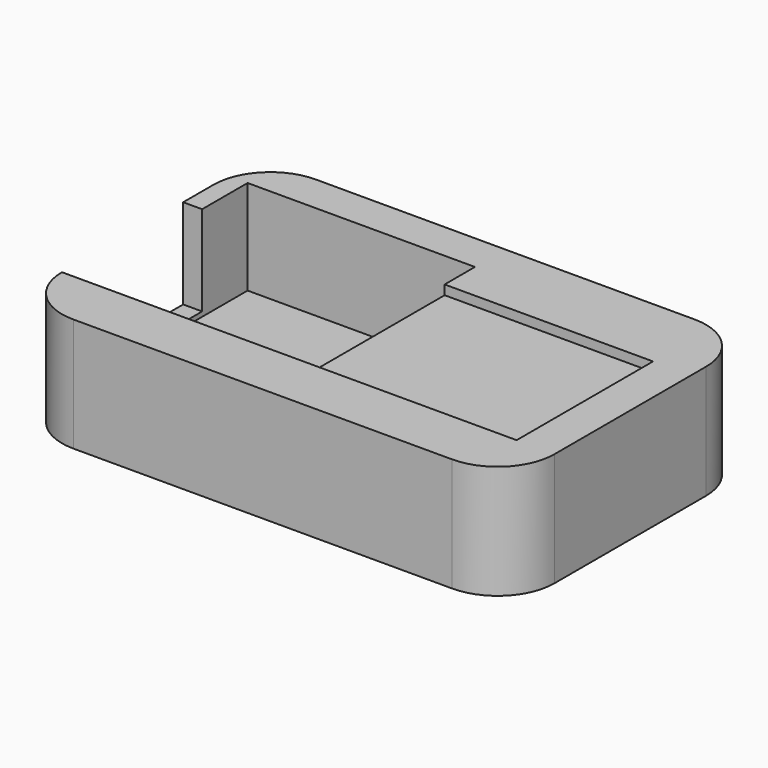
from build123d import *

# Parameters (mm, degrees)
F0_W     = 165.1
F0_H     = 38.1
F1_DEPTH = 50.8
F2_W     = 76.2
F2_H     = 69.85
F3_DEPTH = 31.75
F5_W     = 6.35
F5_H     = 50.8
F6_DEPTH = 30.1625
F7_W     = 69.85
F7_H     = 57.15
F8_DEPTH = 3.175
F9_R     = 19.05
F10_R    = 19.05
F11_R    = 19.05


with BuildPart() as f1:
    # F0 (on Front) → F1 (new body, symmetric)
    with BuildSketch(Plane.XZ):
        with Locations((-22.901768, -7.525502)):
            Rectangle(F0_W, F0_H)
    extrude(amount=F1_DEPTH, both=True)

    # F2 (on face) → F3 (cut)
    with BuildSketch(Plane.XY.offset(11.524498)):
        with Locations((-61.001768, 3.175)):
            Rectangle(F2_W, F2_H)
    extrude(amount=-F3_DEPTH, mode=Mode.SUBTRACT)

    # F5 (on face) → F6 (cut)
    with BuildSketch(Plane.XY.offset(11.524498)):
        with Locations((-102.276768, -6.35)):
            Rectangle(F5_W, F5_H)
    extrude(amount=-F6_DEPTH, mode=Mode.SUBTRACT)

    # F7 (on face) → F8 (cut)
    with BuildSketch(Plane.XY.offset(11.524498)):
        with Locations((12.023232, -3.175)):
            Rectangle(F7_W, F7_H)
    extrude(amount=-F8_DEPTH, mode=Mode.SUBTRACT)

    # F9
    f9_edges = [f1.edges().sort_by_distance(p)[0] for p in [
        (-105.451768, -50.8, -7.525502),
    ]]
    fillet(f9_edges, radius=F9_R)

    # F10
    f10_edges = [f1.edges().sort_by_distance(p)[0] for p in [
        (59.648232, -50.8, -7.525502),
    ]]
    fillet(f10_edges, radius=F10_R)

    # F11
    f11_edges = [f1.edges().sort_by_distance(p)[0] for p in [
        (59.648232, 50.8, -7.525502),
        (-105.451768, 50.8, -7.525502),
    ]]
    fillet(f11_edges, radius=F11_R)


solid = f1.part
